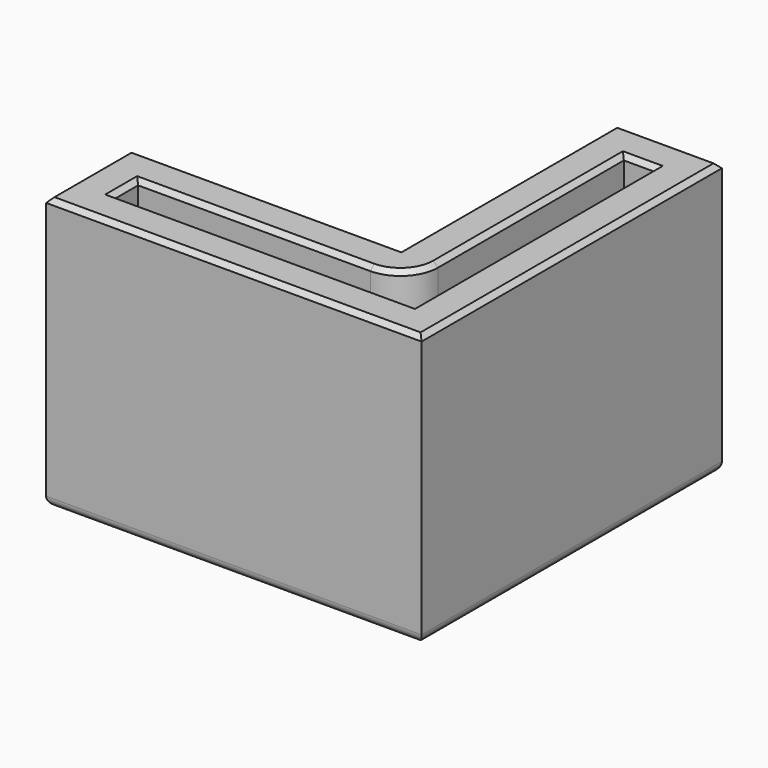
from build123d import *

# Parameters (mm, degrees)
F1_DEPTH = 25
F2_SIZE  = 0.5
F4_DEPTH = 4
F5_R     = 1


with BuildPart() as f1:
    # F0 (on Top) → F1 (new body)
    with BuildSketch(Plane.XY):
        Polygon((-32.75, 4), (-32.75, -7.25), (7.25, -7.25), (7.25, 32.75), (-4, 32.75), (-4, 4), align=None)
        with BuildLine():
            Line((0, 4), (0, 28.75))
            Line((0, 28.75), (3.25, 28.75))
            Line((3.25, 28.75), (3.25, -3.25))
            Line((3.25, -3.25), (-28.75, -3.25))
            Line((-28.75, -3.25), (-28.75, 0))
            Line((-28.75, 0), (-4, 0))
            ThreePointArc((-4, 0), (-1.171573, 1.171573), (0, 4))
        make_face(mode=Mode.SUBTRACT)
    extrude(amount=F1_DEPTH)

    # F2
    f2_edges = [f1.edges().sort_by_distance(p)[0] for p in [
        (-32.75, -1.625, 25),
        (-12.75, -7.25, 25),
        (7.25, 12.75, 25),
        (1.625, 32.75, 25),
        (-4, 18.375, 25),
        (-18.375, 4, 25),
        (0, 16.375, 25),
        (1.625, 28.75, 25),
        (3.25, 12.75, 25),
        (-12.75, -3.25, 25),
        (-28.75, -1.625, 25),
        (-16.375, 0, 25),
        (-1.171573, 1.171573, 25),
    ]]
    chamfer(f2_edges, length=F2_SIZE)

    # F3 (on face) → F4 (join)
    with BuildSketch(Plane(origin=(0, 0, 0), x_dir=(1, 0, 0), z_dir=(0, 0, -1))):
        Polygon((7.25, 7.25), (-32.75, 7.25), (-32.75, -4), (-4, -4), (-4, -32.75), (7.25, -32.75), align=None)
    extrude(amount=F4_DEPTH)

    # F5
    f5_edges = [f1.edges().sort_by_distance(p)[0] for p in [
        (-12.75, -7.25, -4),
        (-32.75, -1.625, -4),
        (-18.375, 4, -4),
        (-4, 18.375, -4),
        (1.625, 32.75, -4),
        (7.25, 12.75, -4),
    ]]
    fillet(f5_edges, radius=F5_R)


solid = f1.part
